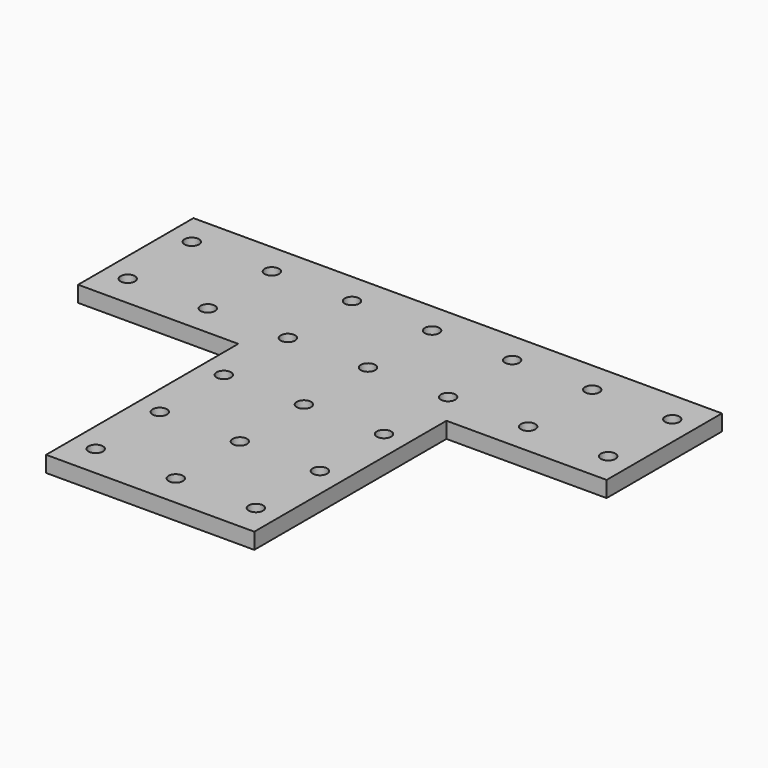
from build123d import *

# Parameters (mm, degrees)
PAD_DEPTH    = 4
SKETCH001_R  = 1.8
POCKET_DEPTH = 5


with BuildPart() as part:
    # Sketch → Pad (new body)
    with BuildSketch(Plane.XY):
        Polygon((-66, 0), (-66, 36), (66, 36), (66, 0), (26, 0), (26, -60), (-26, -60), (-26, 0), align=None)
    extrude(amount=PAD_DEPTH)

    # Sketch001 (on Face10 of Pad) → Pocket (cut)
    with BuildSketch(Plane.XY.offset(4)):
        with Locations((-60, 28)):
            Circle(SKETCH001_R)
        with Locations((-40, 28)):
            Circle(SKETCH001_R)
        with Locations((-60, 8)):
            Circle(SKETCH001_R)
        with Locations((-40, 8)):
            Circle(SKETCH001_R)
        with Locations((40, 28)):
            Circle(SKETCH001_R)
        with Locations((40, 8)):
            Circle(SKETCH001_R)
        with Locations((60, 28)):
            Circle(SKETCH001_R)
        with Locations((60, 8)):
            Circle(SKETCH001_R)
        with Locations((-20, -52)):
            Circle(SKETCH001_R)
        with Locations((0, -52)):
            Circle(SKETCH001_R)
        with Locations((20, -52)):
            Circle(SKETCH001_R)
        with Locations((-20, -32)):
            Circle(SKETCH001_R)
        with Locations((0, -32)):
            Circle(SKETCH001_R)
        with Locations((20, -32)):
            Circle(SKETCH001_R)
        with Locations((-20, -12)):
            Circle(SKETCH001_R)
        with Locations((0, -12)):
            Circle(SKETCH001_R)
        with Locations((20, -12)):
            Circle(SKETCH001_R)
        with Locations((20, 8)):
            Circle(SKETCH001_R)
        with Locations((0, 8)):
            Circle(SKETCH001_R)
        with Locations((-20, 8)):
            Circle(SKETCH001_R)
        with Locations((-20, 28)):
            Circle(SKETCH001_R)
        with Locations((0, 28)):
            Circle(SKETCH001_R)
        with Locations((20, 28)):
            Circle(SKETCH001_R)
    extrude(amount=-POCKET_DEPTH, mode=Mode.SUBTRACT)


solid = part.part
